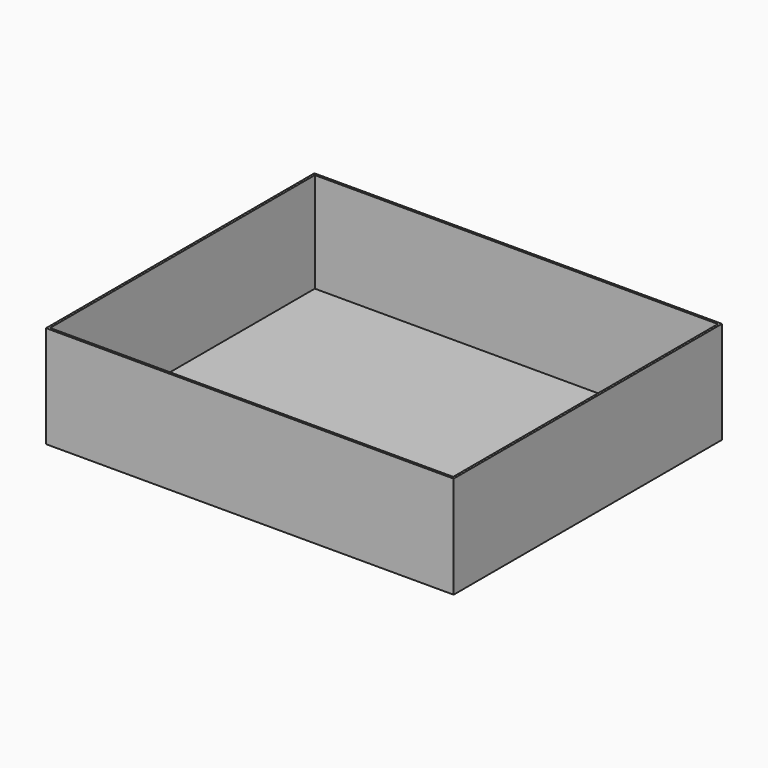
from build123d import *

# Parameters (mm, degrees)
F1_W     = 367
F1_H     = 302
F1_W_2   = 363
F1_H_2   = 298
F2_DEPTH = 92
F3_DEPTH = 2


with BuildPart() as f2:
    # F1 (on Top) → F2 (new body)
    with BuildSketch(Plane.XY):
        Rectangle(F1_W, F1_H)
        Rectangle(F1_W_2, F1_H_2, mode=Mode.SUBTRACT)
    extrude(amount=F2_DEPTH)

    # F1 (on Top) → F3 (join)
    with BuildSketch(Plane.XY):
        Rectangle(F1_W, F1_H)
        Rectangle(F1_W_2, F1_H_2, mode=Mode.SUBTRACT)
        Rectangle(F1_W_2, F1_H_2)
    extrude(amount=F3_DEPTH)


solid = f2.part
